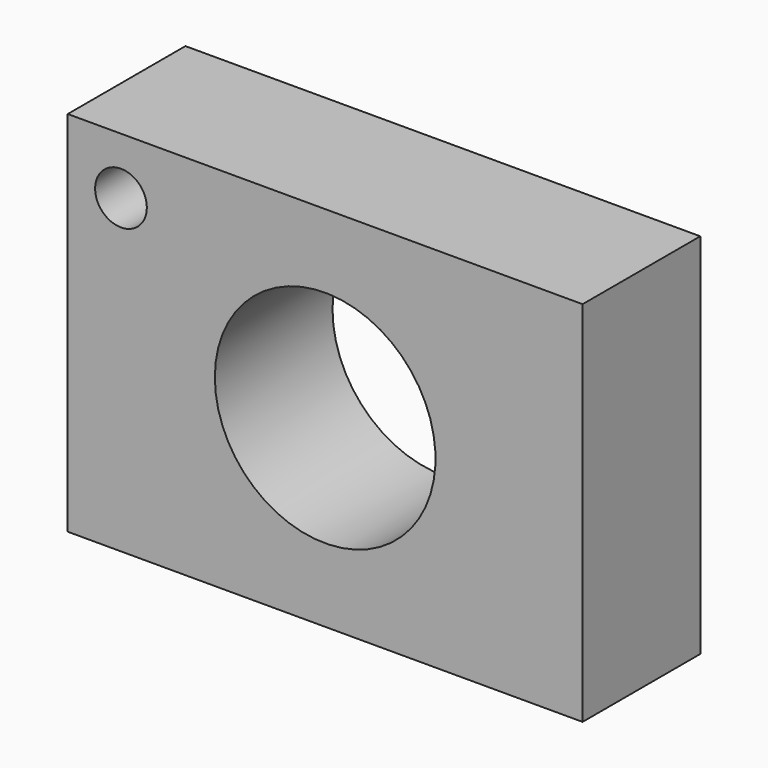
from build123d import *

# Parameters (mm, degrees)
F0_W     = 177.8
F0_H     = 127
F1_DEPTH = 25.4
F2_R     = 38.1
F3_DEPTH = 50.801
F4_R     = 8.929269
F5_DEPTH = 50.801


with BuildPart() as f1:
    # F0 (on Front) → F1 (new body, symmetric)
    with BuildSketch(Plane.XZ):
        Rectangle(F0_W, F0_H)
    extrude(amount=F1_DEPTH, both=True)

    # F2 (on face) → F3 (cut, through all)
    with BuildSketch(Plane(origin=(0, 25.4, 0), x_dir=(-1, 0, 0), z_dir=(0, 1, 0))):
        Circle(F2_R)
    extrude(amount=-F3_DEPTH, mode=Mode.SUBTRACT)

    # F4 (on face) → F5 (cut, through all)
    with BuildSketch(Plane.XZ.offset(25.4)):
        with Locations((-70.516594, 43.921053)):
            Circle(F4_R)
    extrude(amount=-F5_DEPTH, mode=Mode.SUBTRACT)


solid = f1.part
